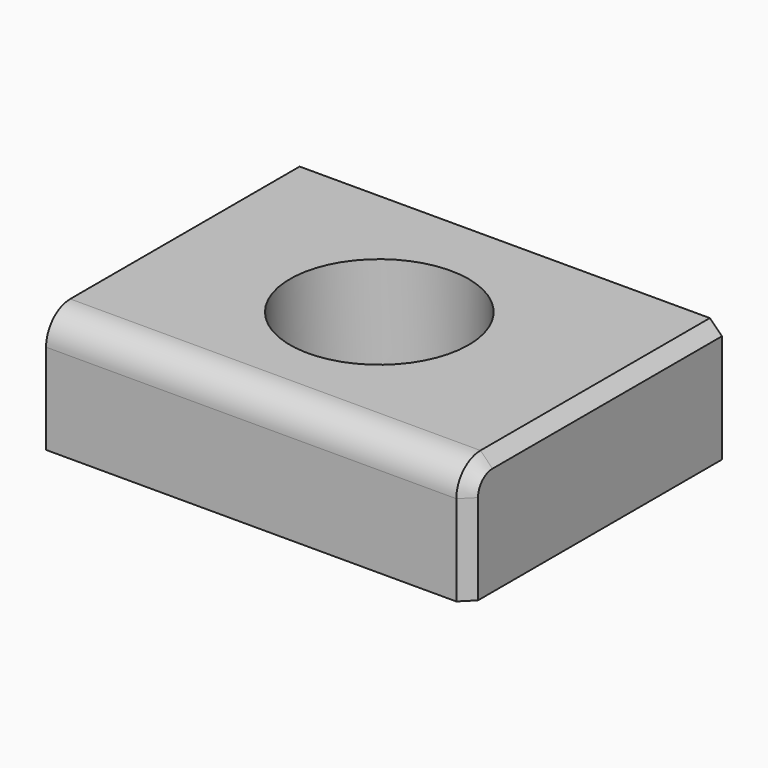
from build123d import *

# Parameters (mm, degrees)
F0_W     = 109.517686
F0_H     = 66.721742
F1_DEPTH = 50.8
F2_R     = 37.612171
F3_DEPTH = 50.801
F4_R     = 12.7
F5_SIZE  = 5.08


with BuildPart() as f1:
    # F0 (on Top) → F1 (new body)
    with BuildSketch(Plane.XY):
        Polygon((177.8, 0), (0, 0), (0, -133.443484), (40.524788, -133.443484), (40.524788, -66.721742), (150.042474, -66.721742), (150.042474, -133.443484), (177.8, -133.443484), align=None)
        with Locations((95.283631, -100.082613)):
            Rectangle(F0_W, F0_H)
    extrude(amount=F1_DEPTH)

    # F2 (on face) → F3 (cut, through all)
    with BuildSketch(Plane.XY.offset(50.8)):
        with Locations((85.144848, -64.497687)):
            Circle(F2_R)
    extrude(amount=-F3_DEPTH, mode=Mode.SUBTRACT)

    # F4
    f4_edges = [f1.edges().sort_by_distance(p)[0] for p in [
        (88.9, -133.443484, 50.8),
    ]]
    fillet(f4_edges, radius=F4_R)

    # F5
    f5_edges = [f1.edges().sort_by_distance(p)[0] for p in [
        (177.8, -60.371742, 50.8),
    ]]
    chamfer(f5_edges, length=F5_SIZE)


solid = f1.part
